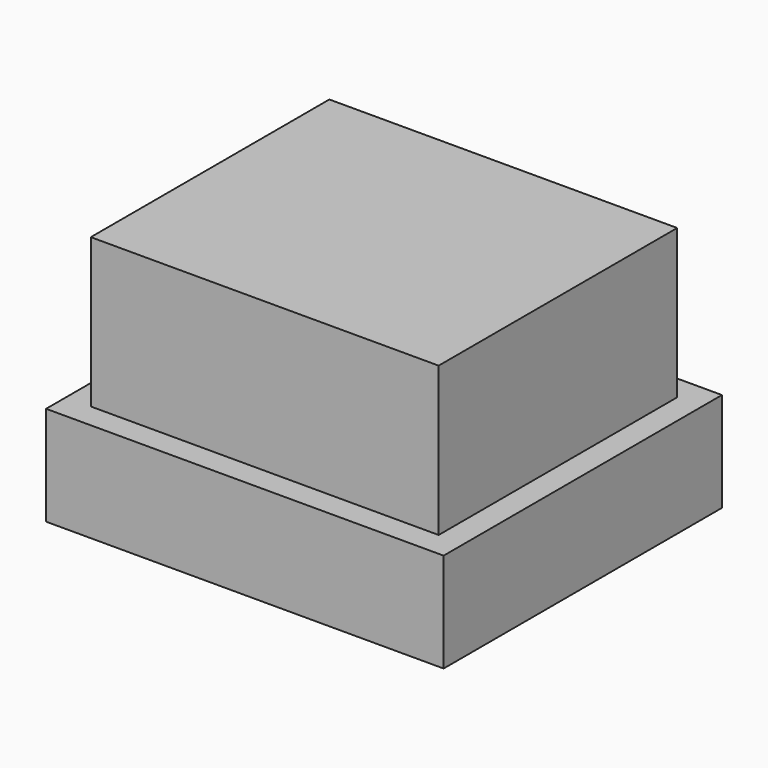
from build123d import *

# Parameters (mm, degrees)
BOX073_W     = 7
BOX073_H     = 6
BOX073_DEPTH = 1
BOX072_W     = 8
BOX072_H     = 7
BOX072_DEPTH = 2
BOX071_W     = 7
BOX071_H     = 6
BOX071_DEPTH = 3


with BuildPart() as box073:
    # Box073 → Box073 (new body)
    with BuildSketch(Plane(origin=(11.5, 28.75, 18.6), x_dir=(1, 0, 0), z_dir=(0, 0, 1))):
        with Locations((3.5, 3)):
            Rectangle(BOX073_W, BOX073_H)
    extrude(amount=BOX073_DEPTH)


with BuildPart() as box072:
    # Box072 → Box072 (new body)
    with BuildSketch(Plane(origin=(11, 28.25, 18.6), x_dir=(1, 0, 0), z_dir=(0, 0, 1))):
        with Locations((4, 3.5)):
            Rectangle(BOX072_W, BOX072_H)
    extrude(amount=BOX072_DEPTH)


with BuildPart() as cut009:
    # Box071 → Box071 (new body)
    with BuildSketch(Plane(origin=(11.5, 28.75, 20.6), x_dir=(1, 0, 0), z_dir=(0, 0, 1))):
        with Locations((3.5, 3)):
            Rectangle(BOX071_W, BOX071_H)
    extrude(amount=BOX071_DEPTH)

    # Fusion024: union Box072
    add(box072.part)

    # Cut009: cut Box073
    add(box073.part, mode=Mode.SUBTRACT)


solid = cut009.part
